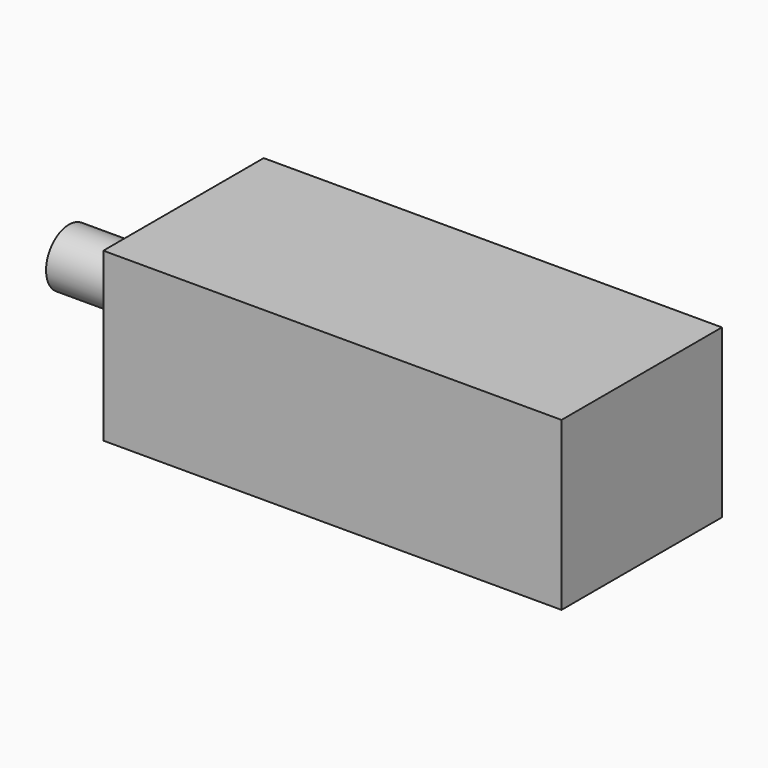
from build123d import *

# Parameters (mm, degrees)
F0_W     = 101.6
F0_H     = 44.45
F1_DEPTH = 37.084
F2_R     = 6.35
F3_DEPTH = 127


with BuildPart() as f1:
    # F0 (on Top) → F1 (new body)
    with BuildSketch(Plane.XY):
        Rectangle(F0_W, F0_H)
    extrude(amount=F1_DEPTH)

    # F2 (on face) → F3 (join)
    with BuildSketch(Plane.YZ.offset(50.8)):
        with Locations((0, 18.542)):
            Circle(F2_R)
    extrude(amount=-F3_DEPTH)


solid = f1.part
